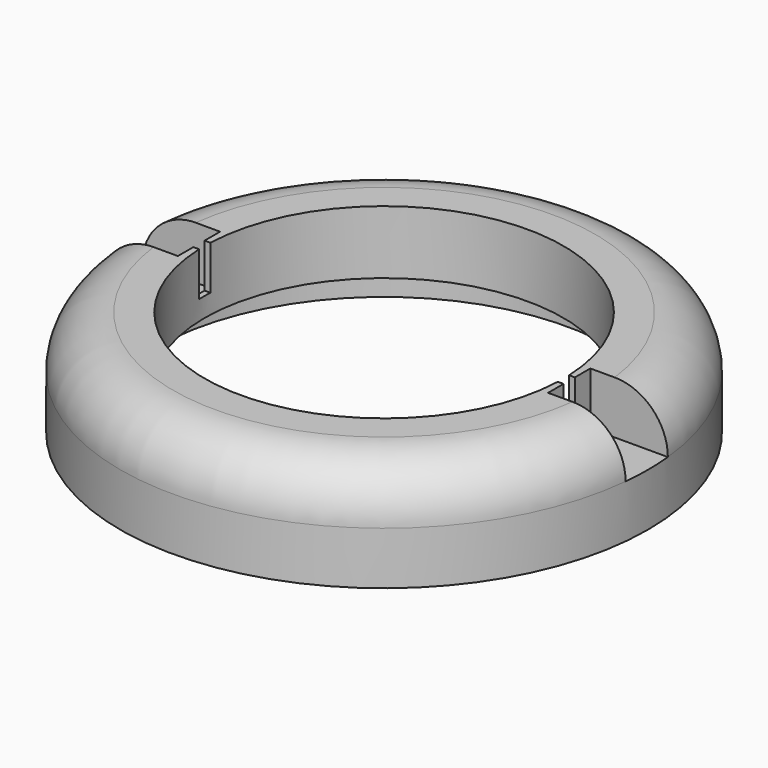
from build123d import *

# Parameters (mm, degrees)
F0_R     = 75
F0_R_2   = 65
F0_R_3   = 51
F1_DEPTH = 30
F3_DEPTH = 12
F4_R     = 5
F5_R     = 15
F6_DEPTH = 15
F7_DEPTH = 12.5


with BuildPart() as f1:
    # F0 (on Top) → F1 (new body)
    with BuildSketch(Plane.XY):
        Circle(F0_R)
        Circle(F0_R_2, mode=Mode.SUBTRACT)
        Circle(F0_R_2)
        Circle(F0_R_3, mode=Mode.SUBTRACT)
    extrude(amount=F1_DEPTH)

    # F0 (on Top) → F3 (cut)
    with BuildSketch(Plane.XY):
        Circle(F0_R_2)
        Circle(F0_R_3, mode=Mode.SUBTRACT)
    extrude(amount=F3_DEPTH, mode=Mode.SUBTRACT)

    # F4
    f4_edges = [f1.edges().sort_by_distance(p)[0] for p in [
        (-65, 0, 12),
    ]]
    fillet(f4_edges, radius=F4_R)

    # F5
    f5_edges = [f1.edges().sort_by_distance(p)[0] for p in [
        (-75, 0, 30),
    ]]
    fillet(f5_edges, radius=F5_R)

    # F2 (on face) → F6 (cut)
    with BuildSketch(Plane.XY.offset(30)):
        with BuildLine():
            Line((52.6, -2), (74.9733285909, -2))
            ThreePointArc((74.9733285909, -2), (74.9933318513, -1.0000889166), (75, 0))
            ThreePointArc((75, 0), (74.9933318513, 1.0000889166), (74.9733285909, 2))
            Line((74.9733285909, 2), (52.6, 2))
            Line((52.6, 2), (52.6, -2))
        make_face()
        with BuildLine():
            Line((52.6, 2), (74.9733285909, 2))
            ThreePointArc((74.9733285909, 2), (74.8492284695, 4.7532091816), (74.624057783, 7.5))
            Line((74.624057783, 7.5), (52.6, 7.5))
            Line((52.6, 7.5), (52.6, 2))
        make_face()
        with BuildLine():
            ThreePointArc((74.624057783, -7.5), (74.8492284695, -4.7532091816), (74.9733285909, -2))
            Line((74.9733285909, -2), (52.6, -2))
            Line((52.6, -2), (52.6, -7.5))
            Line((52.6, -7.5), (74.624057783, -7.5))
        make_face()
        with BuildLine():
            Line((-52.6, 7.5), (-74.624057783, 7.5))
            ThreePointArc((-74.624057783, 7.5), (-74.8492284695, 4.7532091816), (-74.9733285909, 2))
            Line((-74.9733285909, 2), (-52.6, 2))
            Line((-52.6, 2), (-52.6, 7.5))
        make_face()
        with BuildLine():
            ThreePointArc((-75, 0), (-74.9933318513, -1.0000889166), (-74.9733285909, -2))
            Line((-74.9733285909, -2), (-52.6, -2))
            Line((-52.6, -2), (-52.6, 2))
            Line((-52.6, 2), (-74.9733285909, 2))
            ThreePointArc((-74.9733285909, 2), (-74.9933318513, 1.0000889166), (-75, 0))
        make_face()
        with BuildLine():
            ThreePointArc((-74.9733285909, -2), (-74.8492284695, -4.7532091816), (-74.624057783, -7.5))
            Line((-74.624057783, -7.5), (-52.6, -7.5))
            Line((-52.6, -7.5), (-52.6, -2))
            Line((-52.6, -2), (-74.9733285909, -2))
        make_face()
    extrude(amount=-F6_DEPTH, mode=Mode.SUBTRACT)

    # F2 (on face) → F7 (cut)
    with BuildSketch(Plane.XY.offset(30)):
        with BuildLine():
            Line((-52.6, -2), (-50.960769225, -2))
            ThreePointArc((-50.960769225, -2), (-51, 0), (-50.960769225, 2))
            Line((-50.960769225, 2), (-52.6, 2))
            Line((-52.6, 2), (-52.6, -2))
        make_face()
        with BuildLine():
            Line((50.960769225, -2), (52.6, -2))
            Line((52.6, -2), (52.6, 2))
            Line((52.6, 2), (50.960769225, 2))
            ThreePointArc((50.960769225, 2), (50.990191363, 1.0001923632), (51, 0))
            ThreePointArc((51, 0), (50.990191363, -1.0001923632), (50.960769225, -2))
        make_face()
    extrude(amount=-F7_DEPTH, mode=Mode.SUBTRACT)


solid = f1.part
